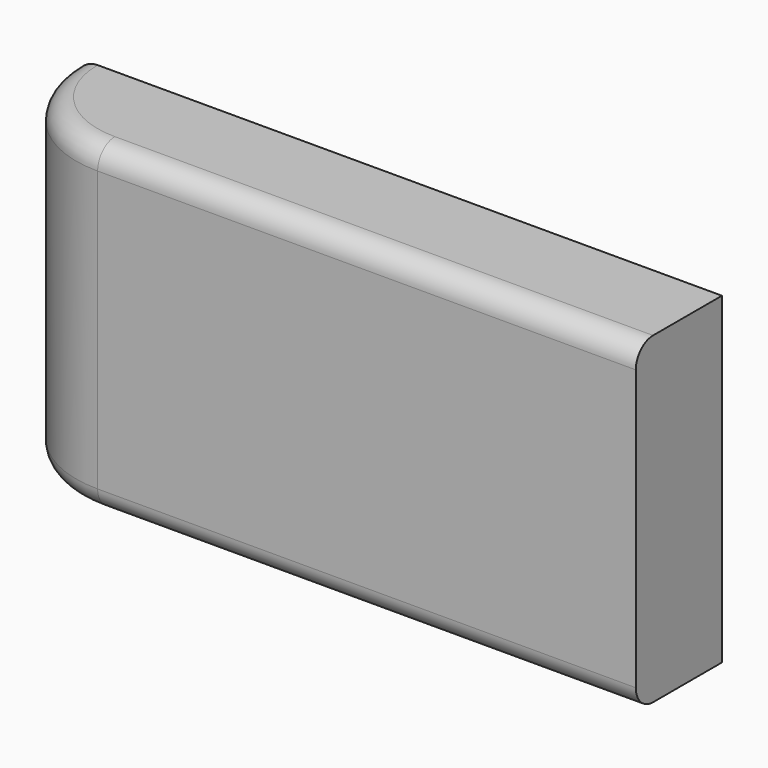
from build123d import *

# Parameters (mm, degrees)
F0_W     = 127
F0_H     = 25.4
F1_DEPTH = 25.4
F2_DEPTH = 50.8
F3_R     = 5.08


with BuildPart() as f1:
    # F0 (on Top) → F1 (new body)
    with BuildSketch(Plane.XY):
        with BuildLine():
            Line((-73.2382812262, 3.6112588555), (-73.2382812262, 29.0112588555))
            Line((-73.2382812262, 29.0112588555), (-98.6382812262, 29.0112588555))
            ThreePointArc((-98.6382812262, 29.0112588555), (-91.1987934683, 11.0507466133), (-73.2382812262, 3.6112588555))
        make_face()
        with Locations((-9.7382812262, 16.3112588555)):
            Rectangle(F0_W, F0_H)
    extrude(amount=F1_DEPTH)

    # F2 (add): a face of the model
    f2_faces = [f1.faces().sort_by_distance(p)[0] for p in [
        (-19.822193931, 16.5718960607, 25.4),
    ]]
    extrude(f2_faces, amount=F2_DEPTH)

    # F3
    f3_edges = [f1.edges().sort_by_distance(p)[0] for p in [
        (-91.198793, 11.050747, 76.2),
        (-91.198793, 11.050747, 0),
    ]]
    fillet(f3_edges, radius=F3_R)


solid = f1.part
